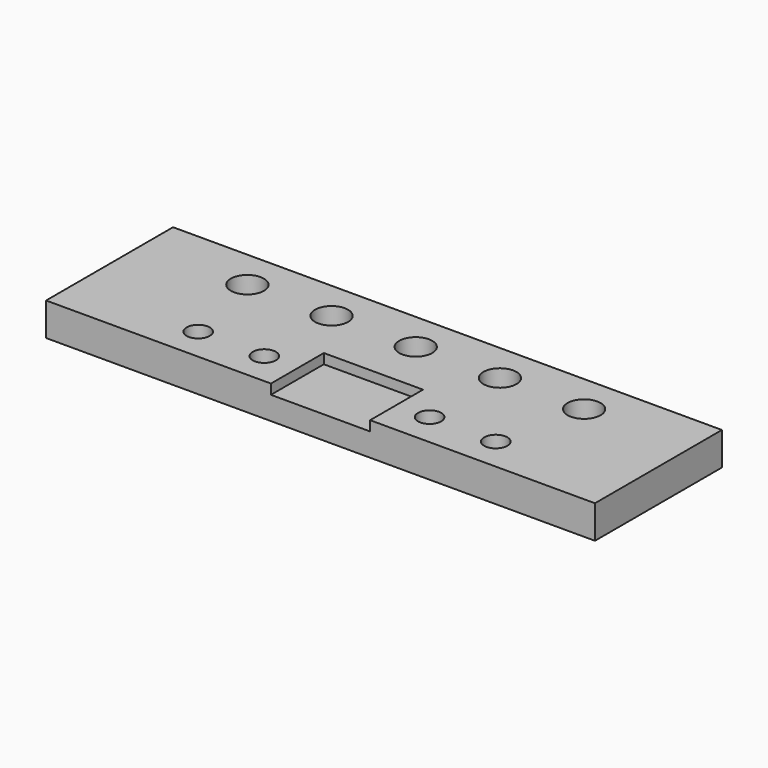
from build123d import *

# Parameters (mm, degrees)
F0_W      = 65
F0_H      = 10
F1_DEPTH  = 10
F2_W      = 15
F2_H      = 10
F3_DEPTH  = 3
F2_R      = 1.75
F4_DEPTH  = 25
F5_DEPTH  = 9
F6_DEPTH  = 9
F7_DEPTH  = 5
F8_DEPTH  = 1.5
F9_W      = 83
F9_H      = 5
F10_DEPTH = 14
F11_R     = 2.5
F12_DEPTH = 25


with BuildPart() as f1:
    # F0 (on Top) → F1 (new body)
    with BuildSketch(Plane.XY):
        Rectangle(F0_W, F0_H)
    extrude(amount=F1_DEPTH)

    # F2 (on face) → F3 (cut)
    with BuildSketch(Plane.XY.offset(10)):
        Rectangle(F2_W, F2_H)
    extrude(amount=-F3_DEPTH, mode=Mode.SUBTRACT)

    # F2 (on face) → F4 (cut)
    with BuildSketch(Plane.XY.offset(10)):
        with Locations((-22.5, 0)):
            Circle(F2_R)
        with Locations((-12.5, 0)):
            Circle(F2_R)
        with Locations((12.5, 0)):
            Circle(F2_R)
        with Locations((22.5, 0)):
            Circle(F2_R)
    extrude(amount=-F4_DEPTH, mode=Mode.SUBTRACT)

    # F5 (add): a face of the model
    f5_faces = [f1.faces().sort_by_distance(p)[0] for p in [
        (32.5, 0, 5),
    ]]
    extrude(f5_faces, amount=F5_DEPTH)

    # F6 (add): a face of the model
    f6_faces = [f1.faces().sort_by_distance(p)[0] for p in [
        (-32.5, 0, 5),
    ]]
    extrude(f6_faces, amount=F6_DEPTH)

    # F7 (cut): a face of the model
    f7_faces = [f1.faces().sort_by_distance(p)[0] for p in [
        (0, 0, 0),
    ]]
    extrude(f7_faces, amount=-F7_DEPTH, mode=Mode.SUBTRACT)

    # F8 (add): a face of the model
    f8_faces = [f1.faces().sort_by_distance(p)[0] for p in [
        (0, 0, 7),
    ]]
    extrude(f8_faces, amount=F8_DEPTH)

    # F9 (on face) → F10 (join)
    with BuildSketch(Plane(origin=(0, 5, 0), x_dir=(-1, 0, 0), z_dir=(0, 1, 0))):
        with Locations((0, 7.5)):
            Rectangle(F9_W, F9_H)
    extrude(amount=F10_DEPTH)

    # F11 (on face) → F12 (cut)
    with BuildSketch(Plane.XY.offset(10)):
        with Locations((12.73, 13)):
            Circle(F11_R)
        with Locations((25.46, 13)):
            Circle(F11_R)
        with Locations((0, 13)):
            Circle(F11_R)
        with Locations((-12.73, 13)):
            Circle(F11_R)
        with Locations((-25.46, 13)):
            Circle(F11_R)
    extrude(amount=-F12_DEPTH, mode=Mode.SUBTRACT)


solid = f1.part
